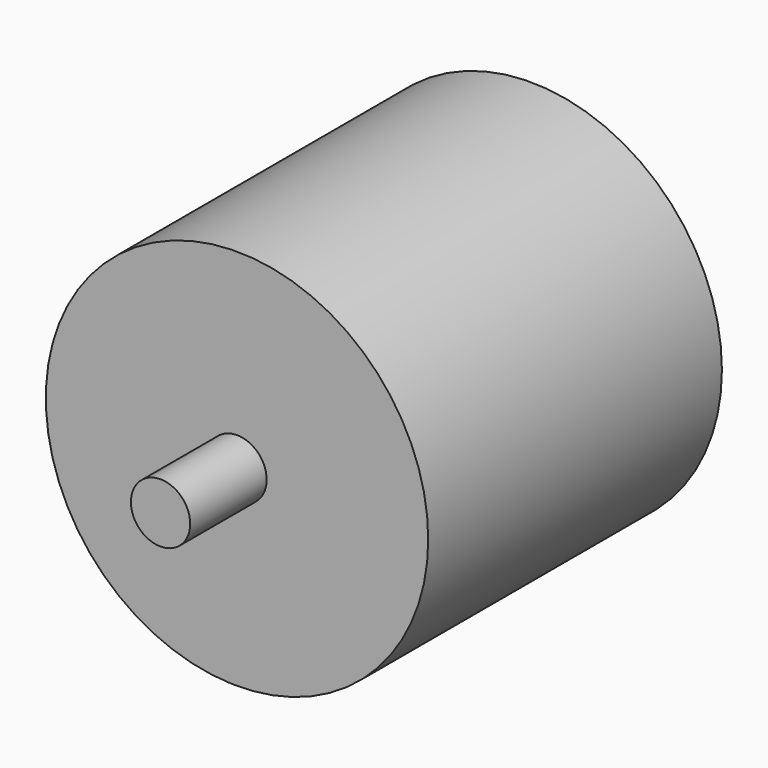
from build123d import *

# Parameters (mm, degrees)
F0_R     = 12.7
F1_DEPTH = 24.384
F2_R     = 1.9685
F3_DEPTH = 30.734
F4_R     = 1.905
F5_DEPTH = 6.35


with BuildPart() as f1:
    # F0 (on Front) → F1 (new body)
    with BuildSketch(Plane.XZ):
        Circle(F0_R)
    extrude(amount=F1_DEPTH)

    # F2 (on Front) → F3 (join)
    with BuildSketch(Plane.XZ):
        Circle(F2_R)
    extrude(amount=F3_DEPTH)

    # F4 (on Front) → F5 (join)
    with BuildSketch(Plane.XZ):
        Circle(F4_R)
    extrude(amount=-F5_DEPTH)


solid = f1.part
